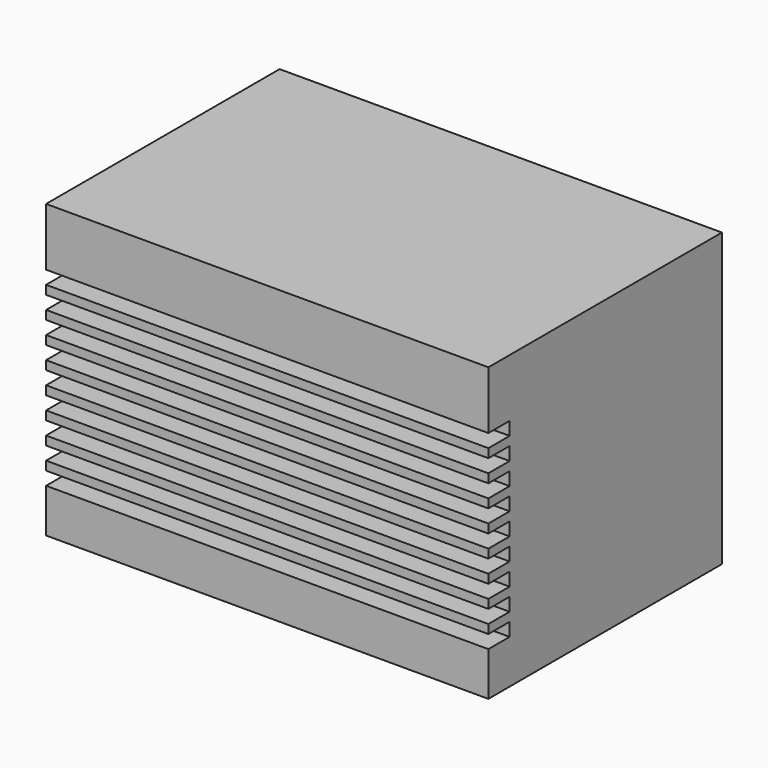
from build123d import *

# Parameters (mm, degrees)
F0_W     = 50
F0_H     = 33
F1_DEPTH = 33
F2_W     = 6
F2_H     = 1.5
F3_DEPTH = 50.001
F4_R     = 5
F5_DEPTH = 5
F6_R     = 1.5
F7_DEPTH = 7


with BuildPart() as f1:
    # F0 (on Top) → F1 (new body)
    with BuildSketch(Plane.XY):
        Rectangle(F0_W, F0_H)
    extrude(amount=F1_DEPTH)

    # F2 (on face) → F3 (cut, through all)
    with BuildSketch(Plane.YZ.offset(25)):
        with Locations((-16.5, 25.702117)):
            Rectangle(F2_W, F2_H)
        with Locations((-16.5, 23.202117)):
            Rectangle(F2_W, F2_H)
        with Locations((-16.5, 20.702117)):
            Rectangle(F2_W, F2_H)
        with Locations((-16.5, 18.202117)):
            Rectangle(F2_W, F2_H)
        with Locations((-16.5, 15.702117)):
            Rectangle(F2_W, F2_H)
        with Locations((-16.5, 13.202117)):
            Rectangle(F2_W, F2_H)
        with Locations((-16.5, 10.702117)):
            Rectangle(F2_W, F2_H)
        with Locations((-16.5, 8.202117)):
            Rectangle(F2_W, F2_H)
        with Locations((-16.5, 5.702117)):
            Rectangle(F2_W, F2_H)
    extrude(amount=-F3_DEPTH, mode=Mode.SUBTRACT)

    # F4 (on face) → F5 (join)
    with BuildSketch(Plane(origin=(-25, 0, 0), x_dir=(0, -1, 0), z_dir=(-1, 0, 0))):
        with Locations((0, 16.5)):
            Circle(F4_R)
    extrude(amount=F5_DEPTH)

    # F6 (on face) → F7 (cut)
    with BuildSketch(Plane(origin=(0, 16.5, 0), x_dir=(-1, 0, 0), z_dir=(0, 1, 0))):
        with Locations((-20, 8.25)):
            Circle(F6_R)
        with Locations((-20, 16.5)):
            Circle(F6_R)
        with Locations((-20, 24.75)):
            Circle(F6_R)
        with Locations((-12, 16.5)):
            Circle(F6_R)
        with Locations((20, 16.5)):
            Circle(F6_R)
        with Locations((20, 8.25)):
            Circle(F6_R)
        with Locations((20, 24.75)):
            Circle(F6_R)
    extrude(amount=-F7_DEPTH, mode=Mode.SUBTRACT)


solid = f1.part
